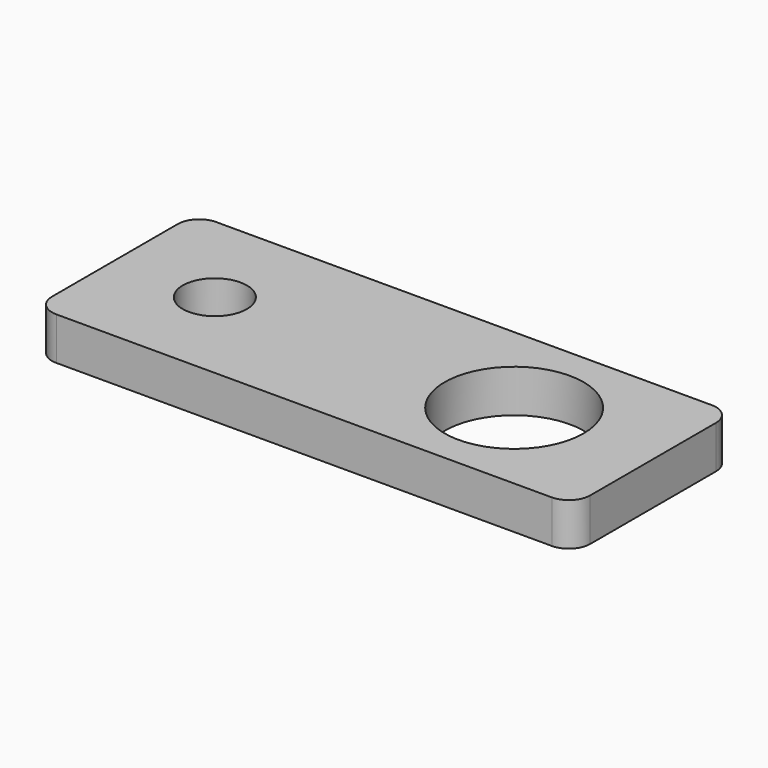
from build123d import *

# Parameters (mm, degrees)
SKETCH_R   = 3
SKETCH_R_2 = 6.5
PAD_DEPTH  = 4


with BuildPart() as part:
    # Sketch → Pad (new body)
    with BuildSketch(Plane.XY):
        with BuildLine():
            Line((2, 9.35), (48.35, 9.35))
            ThreePointArc((50.35, 7.35), (49.764214, 8.764214), (48.35, 9.35))
            Line((50.35, 7.35), (50.35, -7.35))
            ThreePointArc((48.35, -9.35), (49.764214, -8.764214), (50.35, -7.35))
            Line((2, -9.35), (48.35, -9.35))
            ThreePointArc((0, -7.35), (0.585786, -8.764214), (2, -9.35))
            Line((0, 7.35), (0, -7.35))
            ThreePointArc((2, 9.35), (0.585786, 8.764214), (0, 7.35))
        make_face()
        with Locations((9.35, 0)):
            Circle(SKETCH_R, mode=Mode.SUBTRACT)
        with Locations((37.35, 0)):
            Circle(SKETCH_R_2, mode=Mode.SUBTRACT)
    extrude(amount=PAD_DEPTH)


solid = part.part
